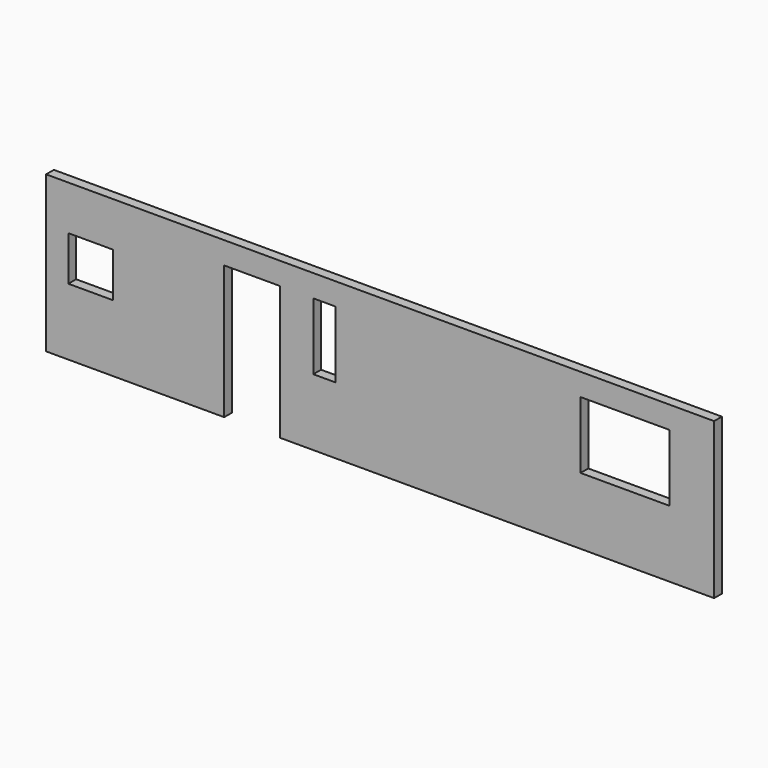
from build123d import *

# Parameters (mm, degrees)
F0_W     = 9144
F0_H     = 2133.6
F1_DEPTH = 133.35
F2_W     = 609.6
F2_H     = 609.6
F2_W_2   = 762
F2_H_2   = 1828.8
F2_W_3   = 304.8
F2_H_3   = 914.4
F2_W_4   = 1219.2
F3_DEPTH = 133.35


with BuildPart() as f1:
    # F0 (on Front) → F1 (new body)
    with BuildSketch(Plane.XZ):
        with Locations((4189.531926, 951.422747)):
            Rectangle(F0_W, F0_H)
    extrude(amount=F1_DEPTH)

    # F2 (on face) → F3 (cut)
    with BuildSketch(Plane.XZ.offset(133.35)):
        with Locations((227.131926, 1103.822747)):
            Rectangle(F2_W, F2_H)
        with Locations((2436.931926, 799.022747)):
            Rectangle(F2_W_2, F2_H_2)
        with Locations((3427.531926, 1256.222747)):
            Rectangle(F2_W_3, F2_H_3)
        with Locations((7542.331926, 1256.222747)):
            Rectangle(F2_W_4, F2_H_3)
    extrude(amount=-F3_DEPTH, mode=Mode.SUBTRACT)


solid = f1.part
